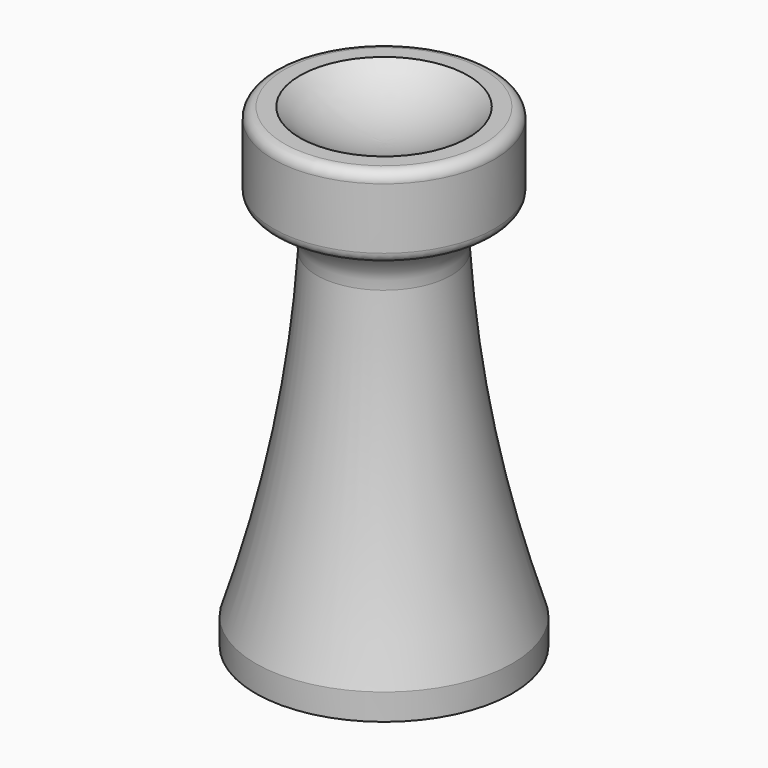
from build123d import *

# Parameters (mm, degrees)
F2_R = 5.08
F3_R = 1.27


with BuildPart() as f1:
    # F0 (on Front) → F1 (revolve)
    with BuildSketch(Plane.XZ):
        with BuildLine():
            Line((-15.494, 0), (-8.636, 0))
            Line((-8.636, 0), (-8.636, 6.604))
            Line((-8.636, 6.604), (-5.1435, 10.0965))
            Line((-5.1435, 10.0965), (-5.1435, 32.004))
            Line((-5.1435, 32.004), (0, 37.1475))
            Line((0, 37.1475), (0, 53.4924))
            ThreePointArc((0, 53.4924), (-5.425442, 54.47622), (-10.16, 57.3024))
            Line((-10.16, 57.3024), (-13.335, 57.3024))
            Line((-13.335, 57.3024), (-13.335, 47.7774))
            Line((-13.335, 47.7774), (-7.9375, 45.812871))
            ThreePointArc((-7.9375, 45.812871), (-10.215656, 24.228081), (-15.494, 3.175))
            Line((-15.494, 3.175), (-15.494, 0))
        make_face()
    revolve(axis=Axis((0, 0, 48.82799), (0, 0, 1)))

    # F2
    f2_edges = [f1.edges().sort_by_distance(p)[0] for p in [
        (7.9375, 0, 45.812871),
    ]]
    fillet(f2_edges, radius=F2_R)

    # F3
    f3_edges = [f1.edges().sort_by_distance(p)[0] for p in [
        (13.335, 0, 47.7774),
        (13.335, 0, 57.3024),
    ]]
    fillet(f3_edges, radius=F3_R)


solid = f1.part
